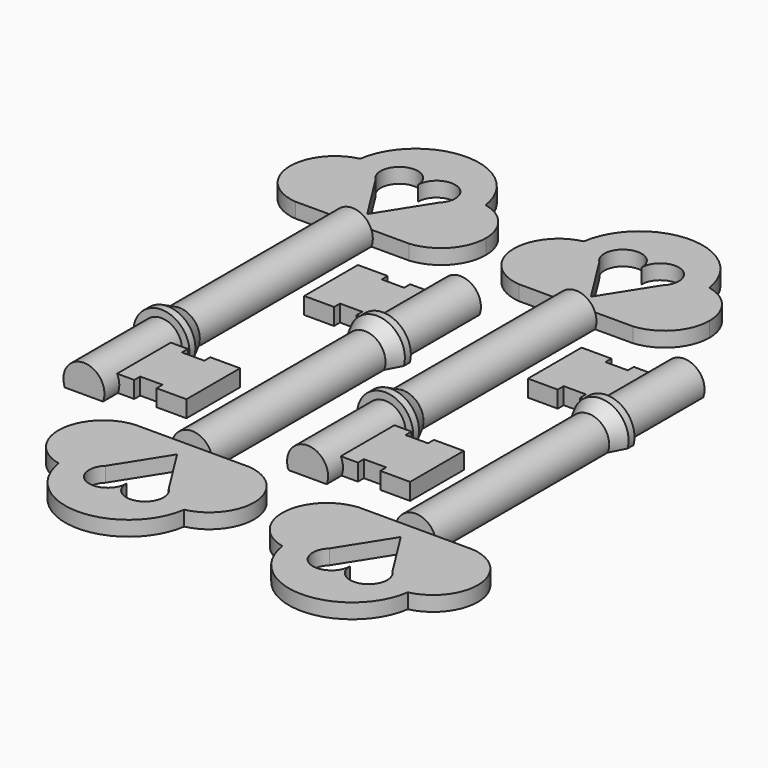
from build123d import *

# Parameters (mm, degrees)
F0_W     = 1.9213462514
F0_H     = 9
F2_DEPTH = 1
F3_DEPTH = 1.25
F5_START = -1
F4_W     = 60.7867818326
F4_H     = 79.3977752328
F5_DEPTH = 4
F7_DEPTH = 25
F9_ANGLE = 180


with BuildPart() as f1:
    # F0 (on Top) → F1 (revolve)
    with BuildSketch(Plane.XY):
        with Locations((1.7893268743, -13)):
            Rectangle(F0_W, F0_H)
        Polygon((3.75, -6), (2.75, -4), (2.75, -7), (3.75, -7), align=None)
        Polygon((2.75, -4), (2.75, 25), (0, 25), (0, -20), (2.75, -20), (2.75, -17.5), (0.8286537486, -17.5), (0.8286537486, -8.5), (2.75, -8.5), (2.75, -7), align=None)
        with Locations((1.7893268743, -13)):
            Rectangle(F0_W, F0_H)
    revolve(axis=Axis((0, 2.5, 0), (0, 1, 0)))

    # F0 (on Top) → F2 (join, symmetric)
    with BuildSketch(Plane.XY):
        with BuildLine():
            ThreePointArc((6.6191079906, 25), (4.1837461598, 25.7459292067), (2.2772536751, 27.4349182636))
            ThreePointArc((2.2772536751, 27.4349182636), (0, 27.1241865886), (-2.2772536751, 27.4349182636))
            ThreePointArc((-2.2772536751, 27.4349182636), (-4.1837461598, 25.7459292067), (-6.6191079906, 25))
            Line((-6.6191079906, 25), (-2.75, 25))
            Line((-2.75, 25), (0, 25))
            Line((0, 25), (2.75, 25))
            Line((2.75, 25), (6.6191079906, 25))
        make_face()
        with BuildLine():
            ThreePointArc((5.0583477866, 36.6143808518), (6.7196483363, 36.9659007911), (8.4129003473, 36.8379030903))
            ThreePointArc((8.4129003473, 36.8379030903), (0, 44.1241865886), (-8.4129003473, 36.8379030903))
            ThreePointArc((-8.4129003473, 36.8379030903), (-6.7196483363, 36.9659007911), (-5.0583477866, 36.6143808518))
            ThreePointArc((-5.0583477866, 36.6143808518), (0, 40.7785407683), (5.0583477866, 36.6143808518))
        make_face()
        with BuildLine():
            ThreePointArc((-5.0583477866, 36.6143808518), (-6.7196483363, 36.9659007911), (-8.4129003473, 36.8379030903))
            ThreePointArc((-8.4129003473, 36.8379030903), (-7.1185587845, 30.9791762731), (-2.2772536751, 27.4349182636))
            ThreePointArc((-2.2772536751, 27.4349182636), (-1.4781599009, 28.9332289537), (-1.1308441822, 30.595413533))
            ThreePointArc((-1.1308441822, 30.595413533), (-4.3166556734, 32.8074773728), (-5.0583477866, 36.6143808518))
        make_face()
        with BuildLine():
            ThreePointArc((-2.2772536751, 27.4349182636), (-7.1185587845, 30.9791762731), (-8.4129003473, 36.8379030903))
            ThreePointArc((-8.4129003473, 36.8379030903), (-13.1050778189, 30.5771938711), (-7.6180095784, 25))
            Line((-7.6180095784, 25), (-6.6191079906, 25))
            ThreePointArc((-6.6191079906, 25), (-4.1837461598, 25.7459292067), (-2.2772536751, 27.4349182636))
        make_face()
        with BuildLine():
            ThreePointArc((8.4129003473, 36.8379030903), (8.4781971242, 36.2326054608), (8.5, 35.6241865886))
            ThreePointArc((8.5, 35.6241865886), (6.7678156091, 30.4815538114), (2.2772536751, 27.4349182636))
            ThreePointArc((2.2772536751, 27.4349182636), (4.1837461598, 25.7459292067), (6.6191079906, 25))
            Line((6.6191079906, 25), (7.6180095784, 25))
            ThreePointArc((7.6180095784, 25), (11.5342526577, 26.916954268), (13.1185587845, 30.9791762731))
            ThreePointArc((13.1185587845, 30.9791762731), (11.7964883146, 34.7364326273), (8.4129003473, 36.8379030903))
        make_face()
        with BuildLine():
            ThreePointArc((2.2772536751, 27.4349182636), (6.7678156091, 30.4815538114), (8.5, 35.6241865886))
            ThreePointArc((8.5, 35.6241865886), (8.4781971242, 36.2326054608), (8.4129003473, 36.8379030903))
            ThreePointArc((8.4129003473, 36.8379030903), (6.7196483363, 36.9659007911), (5.0583477866, 36.6143808518))
            ThreePointArc((5.0583477866, 36.6143808518), (5.1302964371, 36.1216054027), (5.1543541797, 35.6241865886))
            ThreePointArc((5.1543541797, 35.6241865886), (4.0246824997, 32.4040471838), (1.1308441822, 30.595413533))
            ThreePointArc((1.1308441822, 30.595413533), (1.4781599009, 28.9332289537), (2.2772536751, 27.4349182636))
        make_face()
        with BuildLine():
            ThreePointArc((-1.1185587845, 30.9791762731), (-2.20117808, 34.4171069016), (-5.0583477866, 36.6143808518))
            ThreePointArc((-5.0583477866, 36.6143808518), (-4.3166556734, 32.8074773728), (-1.1308441822, 30.595413533))
            ThreePointArc((-1.1308441822, 30.595413533), (-1.1216309204, 30.7871966051), (-1.1185587845, 30.9791762731))
        make_face()
        with BuildLine():
            ThreePointArc((1.1308441822, 30.595413533), (2.0936937602, 34.258007084), (5.0583477866, 36.6143808518))
            Line((5.0583477866, 36.6143808518), (-5.0583477866, 36.6143808518))
            ThreePointArc((-5.0583477866, 36.6143808518), (-2.20117808, 34.4171069016), (-1.1185587845, 30.9791762731))
            ThreePointArc((-1.1185587845, 30.9791762731), (-1.1216309204, 30.7871966051), (-1.1308441822, 30.595413533))
            ThreePointArc((-1.1308441822, 30.595413533), (0, 30.4698324089), (1.1308441822, 30.595413533))
        make_face()
        with BuildLine():
            ThreePointArc((5.1543541797, 35.6241865886), (5.1302964371, 36.1216054027), (5.0583477866, 36.6143808518))
            ThreePointArc((5.0583477866, 36.6143808518), (2.0936937602, 34.258007084), (1.1308441822, 30.595413533))
            ThreePointArc((1.1308441822, 30.595413533), (4.0246824997, 32.4040471838), (5.1543541797, 35.6241865886))
        make_face()
        with BuildLine():
            ThreePointArc((-2.2772536751, 27.4349182636), (0, 27.1241865886), (2.2772536751, 27.4349182636))
            ThreePointArc((2.2772536751, 27.4349182636), (1.4781599009, 28.9332289537), (1.1308441822, 30.595413533))
            ThreePointArc((1.1308441822, 30.595413533), (0, 30.4698324089), (-1.1308441822, 30.595413533))
            ThreePointArc((-1.1308441822, 30.595413533), (-1.4781599009, 28.9332289537), (-2.2772536751, 27.4349182636))
        make_face()
        with BuildLine():
            Line((-5.0583477866, 36.6143808518), (5.0583477866, 36.6143808518))
            ThreePointArc((5.0583477866, 36.6143808518), (0, 40.7785407683), (-5.0583477866, 36.6143808518))
        make_face()
    extrude(amount=F2_DEPTH, both=True)

    # F0 (on Top) → F3 (join, symmetric)
    with BuildSketch(Plane.XY):
        with Locations((1.7893268743, -13)):
            Rectangle(F0_W, F0_H)
        Polygon((4.75, -8.5), (2.75, -8.5), (2.75, -17.5), (4.75, -17.5), (4.75, -16.5), (7.75, -16.5), (7.75, -17.5), (11.75, -17.5), (11.75, -8.5), (7.75, -8.5), (7.75, -9.5), (4.75, -9.5), align=None)
    extrude(amount=F3_DEPTH, both=True)

    # F4 (on Top) → F5 (cut)
    with BuildSketch(Plane.XY.offset(F5_START)):
        with Locations((3.6827223375, 12.0011605322)):
            Rectangle(F4_W, F4_H)
    extrude(amount=-F5_DEPTH, mode=Mode.SUBTRACT)

    # F6 (on face) → F7 (cut)
    with BuildSketch(Plane.XY.offset(1)):
        with BuildLine():
            ThreePointArc((4.2222780527, 34.1878856798), (3.4859779076, 38.2973566475), (0, 36))
            ThreePointArc((0, 36), (-3.4859779076, 38.2973566475), (-4.2222780527, 34.1878856798))
            Line((-4.2222780527, 34.1878856798), (0, 27.5))
            Line((0, 27.5), (4.2222780527, 34.1878856798))
        make_face()
    extrude(amount=-F7_DEPTH, mode=Mode.SUBTRACT)


with BuildPart() as f8_1:
    # F8: copy of F1
    add(f1.part.moved(Location((30, 0, 0))))


with BuildPart() as f8_1_1:
    # F9: moved
    add(f8_1.part.rotate(Axis((37.75, -17.5, 0.125), (0, 0, 1)), F9_ANGLE))


with BuildPart() as f8_1_2:
    # F10: moved
    add(f8_1_1.part.moved(Location((-27, 35, 0))))


with BuildPart() as f11_1:
    # F11: copy of F1
    add(f1.part.moved(Location((-30, 0, 0))))


with BuildPart() as f11_2:
    # F11: copy of F8_1
    add(f8_1_2.part.moved(Location((-30, 0, 0))))


solid = Compound([f1.part, f8_1_2.part, f11_1.part, f11_2.part])
